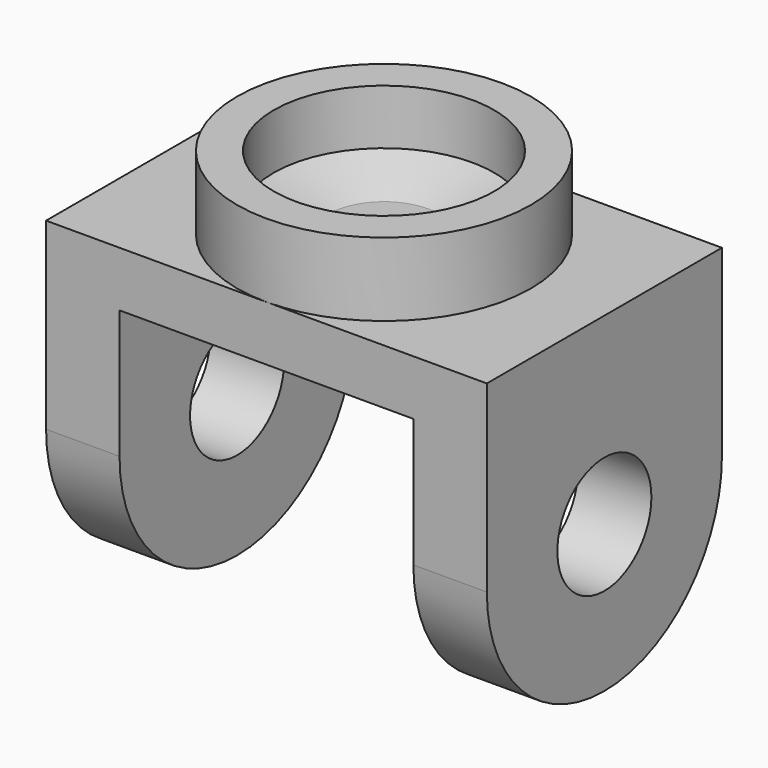
from build123d import *

# Parameters (mm, degrees)
F0_R     = 30
F0_R_2   = 15
F1_DEPTH = 90
F2_R     = 16
F3_DEPTH = 120
F4_W     = 80
F4_H     = 35
F4_H_2   = 40
F5_DEPTH = 250


with BuildPart() as f1:
    # F0 (on Top) → F1 (new body)
    with BuildSketch(Plane.XY):
        with BuildLine():
            ThreePointArc((0, -40), (-40, 0), (0, 40))
            Line((0, 40), (-60, 40))
            Line((-60, 40), (-60, -40))
            Line((-60, -40), (0, -40))
        make_face()
        with BuildLine():
            ThreePointArc((0, -40), (28.284271, -28.284271), (40, 0))
            ThreePointArc((40, 0), (28.284271, 28.284271), (0, 40))
            ThreePointArc((0, 40), (-40, 0), (0, -40))
        make_face()
        Circle(F0_R, mode=Mode.SUBTRACT)
        Circle(F0_R)
        Circle(F0_R_2, mode=Mode.SUBTRACT)
        Circle(F0_R_2)
        with BuildLine():
            ThreePointArc((0, 40), (28.284271, 28.284271), (40, 0))
            ThreePointArc((40, 0), (28.284271, -28.284271), (0, -40))
            Line((0, -40), (60, -40))
            Line((60, -40), (60, 40))
            Line((60, 40), (0, 40))
        make_face()
    extrude(amount=-F1_DEPTH)

    # F2 (on face) → F3 (cut)
    with BuildSketch(Plane.YZ.offset(60)):
        with Locations((0, -50)):
            Circle(F2_R)
        with BuildLine():
            ThreePointArc((0, -90), (-28.284271, -78.284271), (-40, -50))
            Line((-40, -50), (-40, -90))
            Line((-40, -90), (0, -90))
        make_face()
        with BuildLine():
            Line((40, -90), (40, -50))
            ThreePointArc((40, -50), (28.284271, -78.284271), (0, -90))
            Line((0, -90), (40, -90))
        make_face()
    extrude(amount=-F3_DEPTH, mode=Mode.SUBTRACT)

    # F4 (on face) → F5 (cut)
    with BuildSketch(Plane.XZ.offset(40)):
        with Locations((0, -32.5)):
            Rectangle(F4_W, F4_H)
        with Locations((0, -70)):
            Rectangle(F4_W, F4_H_2)
    extrude(amount=-F5_DEPTH, mode=Mode.SUBTRACT)

    # F6 (on Front) → F7 (revolve)
    with BuildSketch(Plane.XZ):
        Polygon((-40, 0), (-15, 0), (-30, 5), (-30, 20), (-40, 20), align=None)
    revolve(axis=Axis((0, 0, 23.827048), (0, 0, 1)))


solid = f1.part
